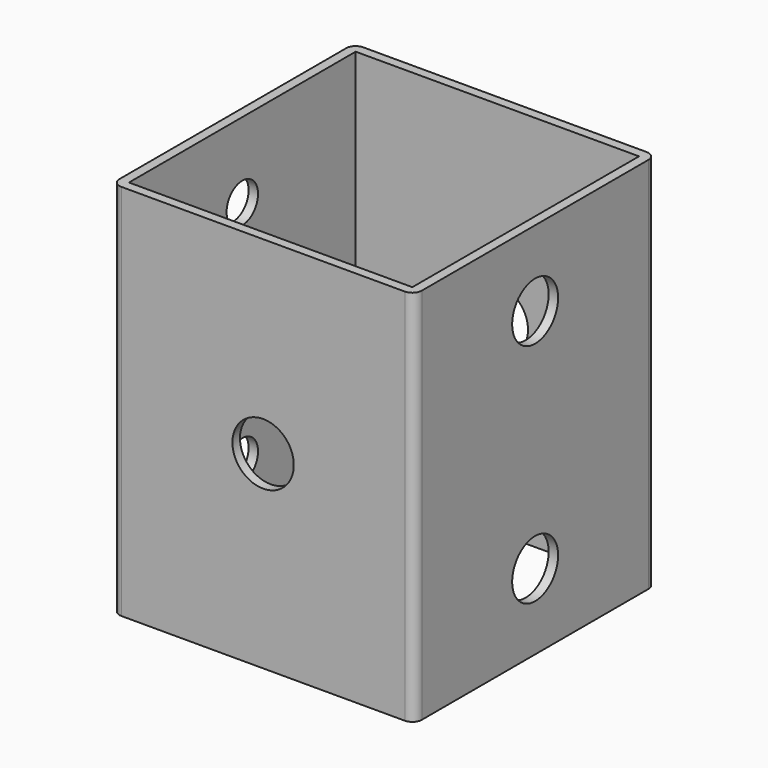
from build123d import *

# Parameters (mm, degrees)
F0_W     = 50.8
F0_H     = 50.8
F0_W_2   = 47.625
F0_H_2   = 47.625
F1_DEPTH = 63.5
F2_R     = 1.5875
F4_D     = 6.604
F6_D     = 9.652
F6_DEPTH = 12.7
F6_TIP   = 2.8997533474
F8_D     = 10.3124


with BuildPart() as f1:
    # F0 (on Top) → F1 (new body)
    with BuildSketch(Plane.XY):
        Rectangle(F0_W, F0_H)
        Rectangle(F0_W_2, F0_H_2, mode=Mode.SUBTRACT)
    extrude(amount=F1_DEPTH)

    # F2
    f2_edges = [f1.edges().sort_by_distance(p)[0] for p in [
        (25.4, -25.4, 31.75),
        (25.4, 25.4, 31.75),
        (-25.4, -25.4, 31.75),
        (-25.4, 25.4, 31.75),
    ]]
    fillet(f2_edges, radius=F2_R)

    # F4 (through all)
    with Locations(Plane.YZ.offset(25.4)):
        with Locations((0, 12.7), (0, 50.8)):
            Hole(F4_D / 2)

    # F6
    with Locations(Plane.YZ.offset(25.4)):
        with Locations((0, 50.8), (0, 12.7)):
            Hole(F6_D / 2, depth=F6_DEPTH)
            with Locations((0, 0, -(F6_DEPTH + F6_TIP / 2))):  # 118° drill point
                Cone(0, F6_D / 2, F6_TIP, mode=Mode.SUBTRACT)

    # F8 (through all)
    with Locations(Plane.XZ.offset(25.4)):
        with Locations((0, 31.75)):
            Hole(F8_D / 2)


solid = f1.part
